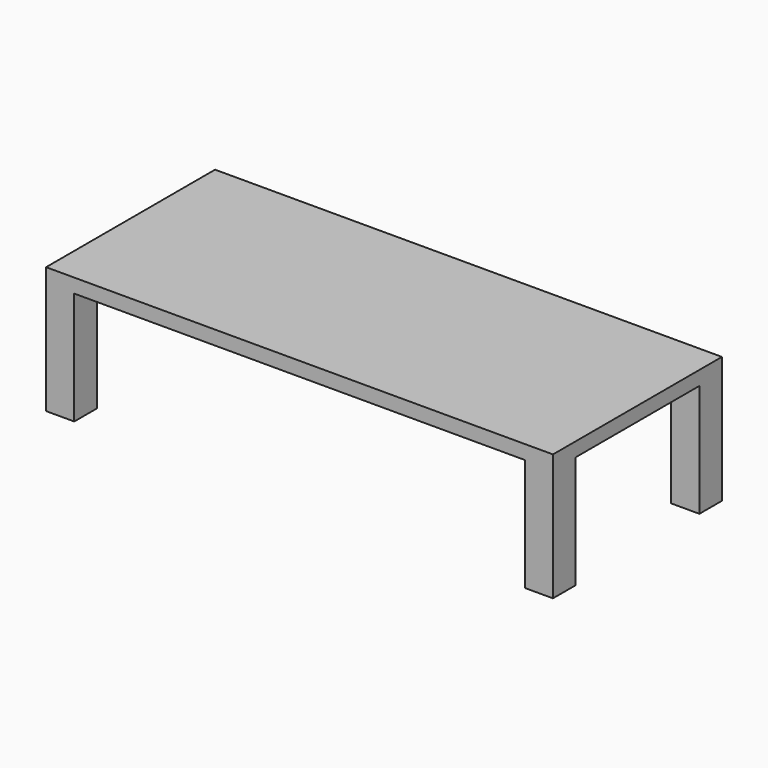
from build123d import *

# Parameters (mm, degrees)
F0_W     = 1828.8
F0_H     = 762
F1_DEPTH = 406.4
F3_DEPTH = 50.8
F2_W     = 1625.6
F2_H     = 406.4
F4_DEPTH = 762
F5_W     = 558.8
F5_H     = 406.4
F6_DEPTH = 1828.8


with BuildPart() as f1:
    # F0 (on Top) → F1 (new body)
    with BuildSketch(Plane.XY):
        Rectangle(F0_W, F0_H)
    extrude(amount=F1_DEPTH)

    # F3 (add): a face of the model
    f3_faces = [f1.faces().sort_by_distance(p)[0] for p in [
        (0, 0, 406.4),
    ]]
    extrude(f3_faces, amount=F3_DEPTH)

    # F2 (on face) → F4 (cut)
    with BuildSketch(Plane.XZ.offset(381)):
        with Locations((0, 203.2)):
            Rectangle(F2_W, F2_H)
    extrude(amount=-F4_DEPTH, mode=Mode.SUBTRACT)

    # F5 (on face) → F6 (cut)
    with BuildSketch(Plane.YZ.offset(914.4)):
        with Locations((0, 203.2)):
            Rectangle(F5_W, F5_H)
    extrude(amount=-F6_DEPTH, mode=Mode.SUBTRACT)


solid = f1.part
